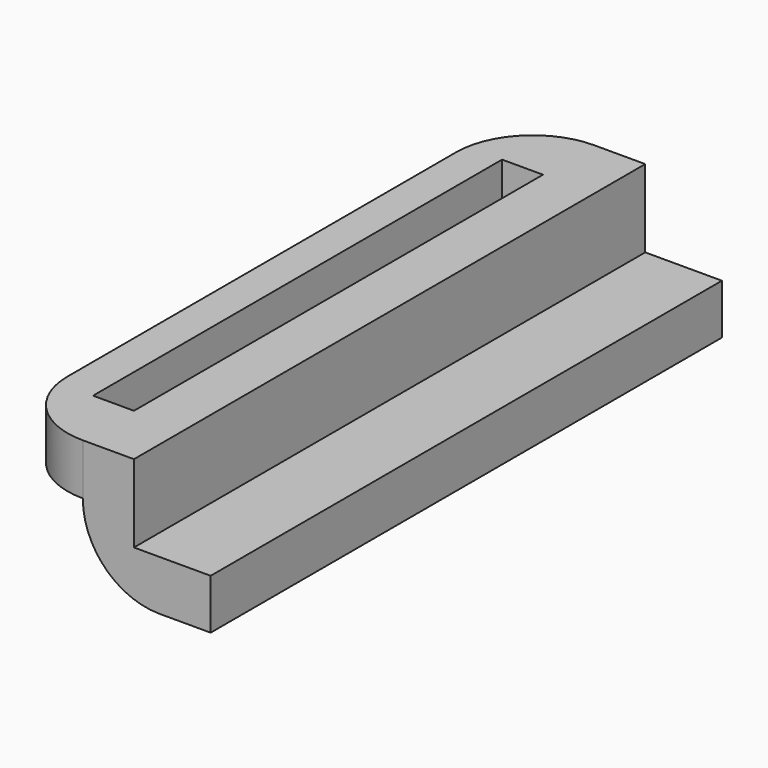
from build123d import *

# Parameters (mm, degrees)
F1_DEPTH = 25
F2_R     = 3
F3_W     = 25
F3_H     = 2
F4_DEPTH = 3
F5_W     = 1.6
F5_H     = 20
F6_DEPTH = 12.5
F7_R     = 3


with BuildPart() as f1:
    # F0 (on Front) → F1 (new body)
    with BuildSketch(Plane.XZ):
        Polygon((2, 5), (0, 5), (0, 0), (5, 0), (5, 1.95942), (2, 1.95942), align=None)
    extrude(amount=F1_DEPTH)

    # F2
    f2_edges = [f1.edges().sort_by_distance(p)[0] for p in [
        (0, -12.5, 0),
    ]]
    fillet(f2_edges, radius=F2_R)

    # F3 (on face) → F4 (join)
    with BuildSketch(Plane(origin=(0, 0, 0), x_dir=(0, -1, 0), z_dir=(-1, 0, 0))):
        with Locations((12.5, 4)):
            Rectangle(F3_W, F3_H)
    extrude(amount=F4_DEPTH)

    # F5 (on face) → F6 (cut, symmetric)
    with BuildSketch(Plane.XY.offset(5)):
        with Locations((-0.8, -12.5)):
            Rectangle(F5_W, F5_H)
    extrude(amount=F6_DEPTH, both=True, mode=Mode.SUBTRACT)

    # F7
    f7_edges = [f1.edges().sort_by_distance(p)[0] for p in [
        (-3, 0, 4),
        (-3, -25, 4),
    ]]
    fillet(f7_edges, radius=F7_R)


solid = f1.part
